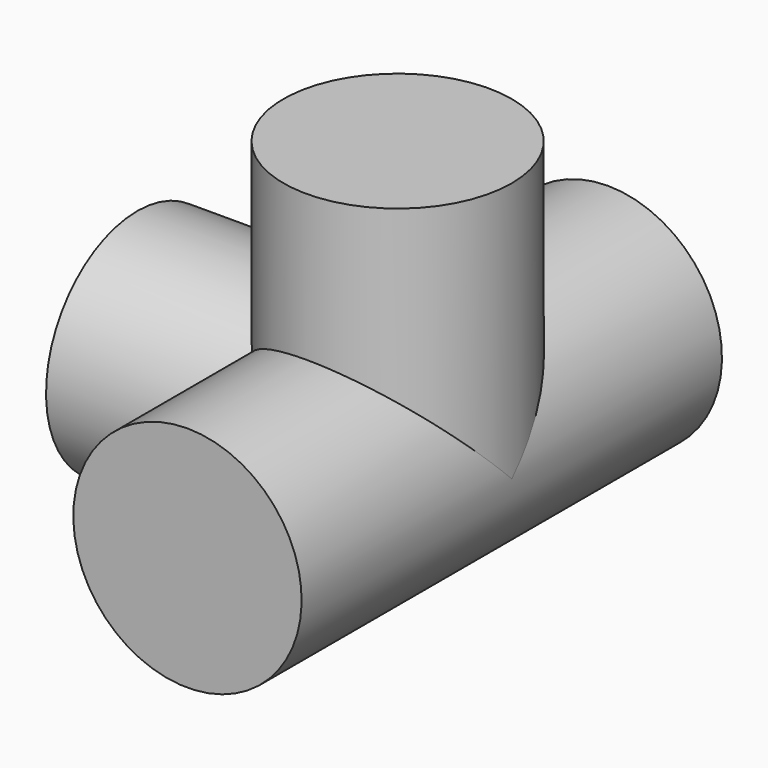
from build123d import *

# Parameters (mm, degrees)
CYLINDER021_R             = 13.9827
CYLINDER021_DEPTH         = 31.877
CYLINDER020_R             = 13.9827
CYLINDER020_DEPTH         = 64.36
CYLINDER022_R             = 13.9827
CYLINDER022_DEPTH         = 31.877
FUSION010_PLACEMENT_ANGLE = 90


with BuildPart() as cylinder021:
    # Cylinder021 → Cylinder021 (new body)
    with BuildSketch(Plane(origin=(0, 0, 0), x_dir=(0, 0, -1), z_dir=(1, 0, 0))):
        Circle(CYLINDER021_R)
    extrude(amount=CYLINDER021_DEPTH)


with BuildPart() as cylinder020:
    # Cylinder020 → Cylinder020 (new body)
    with BuildSketch(Plane.XZ.offset(-32.1818)):
        Circle(CYLINDER020_R)
    extrude(amount=CYLINDER020_DEPTH)


with BuildPart() as front_4_way_l:
    # Cylinder022 → Cylinder022 (new body)
    with BuildSketch(Plane.XY):
        Circle(CYLINDER022_R)
    extrude(amount=CYLINDER022_DEPTH)

    # Fusion009: union Cylinder020
    add(cylinder020.part)

    # Fusion010: union Cylinder021
    add(cylinder021.part)


with BuildPart() as front_4_way_l_1:
    # Fusion010 placement: moved
    add(front_4_way_l.part.moved(Location((730.25, -50.3, -18))).rotate(Axis((730.25, -50.3, -18), (0, -1, 0)), FUSION010_PLACEMENT_ANGLE))


solid = front_4_way_l_1.part
